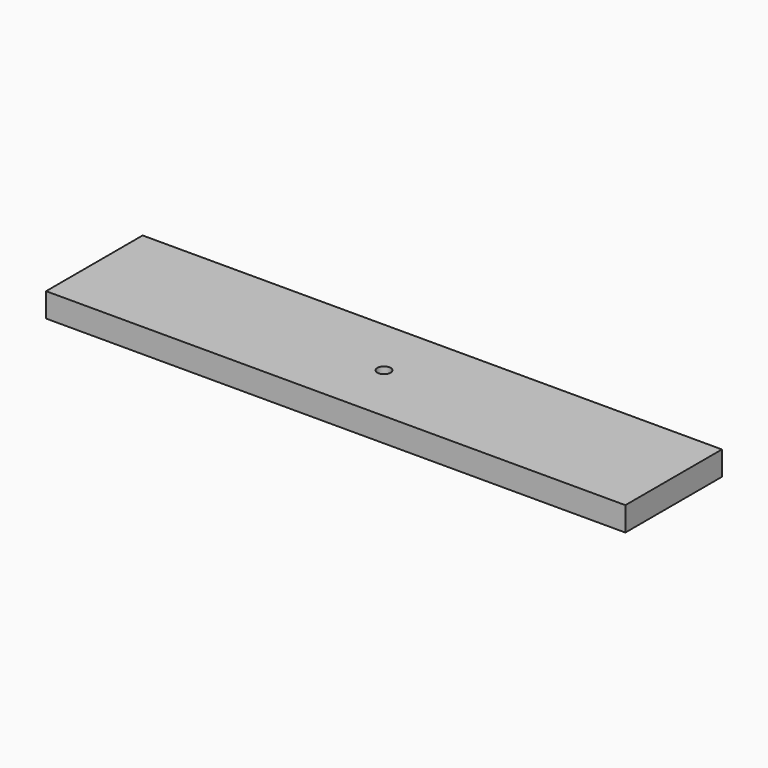
from build123d import *

# Parameters (mm, degrees)
CYLINDER015_R     = 2.75
CYLINDER015_DEPTH = 35
BOX009_W          = 240
BOX009_H          = 50
BOX009_DEPTH      = 10


with BuildPart() as cylinder015:
    # Cylinder015 → Cylinder015 (new body)
    with BuildSketch(Plane.XY.offset(340)):
        Circle(CYLINDER015_R)
    extrude(amount=CYLINDER015_DEPTH)


with BuildPart() as tmp_cap:
    # Box009 → Box009 (new body)
    with BuildSketch(Plane(origin=(-120, -25, 350), x_dir=(1, 0, 0), z_dir=(0, 0, 1))):
        with Locations((120, 25)):
            Rectangle(BOX009_W, BOX009_H)
    extrude(amount=BOX009_DEPTH)

    # Cut015: cut Cylinder015
    add(cylinder015.part, mode=Mode.SUBTRACT)


solid = tmp_cap.part
